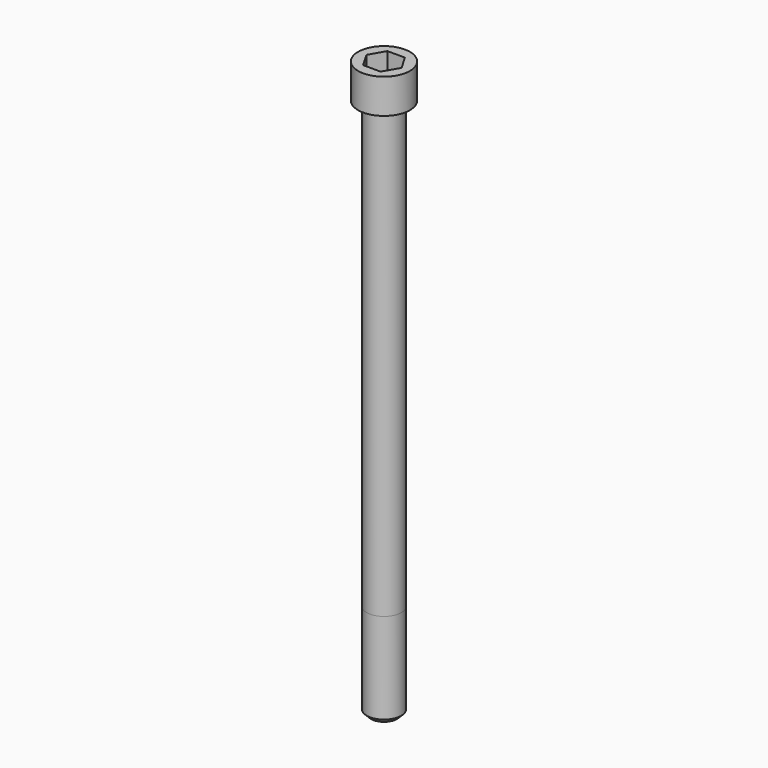
from build123d import *

# Parameters (mm, degrees)
POCKET_DEPTH = 14.08


with BuildPart() as part:
    # Sketch → Revolve (revolve)
    with BuildSketch(Plane.YZ):
        with BuildLine():
            Line((7.999, 0), (12, 0))
            Line((12, 0), (12, 15.97229))
            ThreePointArc((12, 15.97229), (11.991884, 15.991884), (11.97229, 16))
            Line((11.97229, 16), (0, 16))
            Line((0, -250), (0, 16))
            Line((6, -250), (0, -250))
            Line((8, -248), (6, -250))
            Line((8, -206), (8, -248))
            Line((7.999, 0), (8, -206))
        make_face()
    revolve(axis=Axis((0, 0, 0), (0, 0, 1)))

    # Sketch001 → Pocket (cut)
    with BuildSketch(Plane.XY.offset(16)):
        Polygon((8.129092, 0), (4.064546, 7.04), (-4.064546, 7.04), (-8.129092, 0), (-4.064546, -7.04), (4.064546, -7.04), align=None)
    extrude(amount=-POCKET_DEPTH, mode=Mode.SUBTRACT)


solid = part.part
